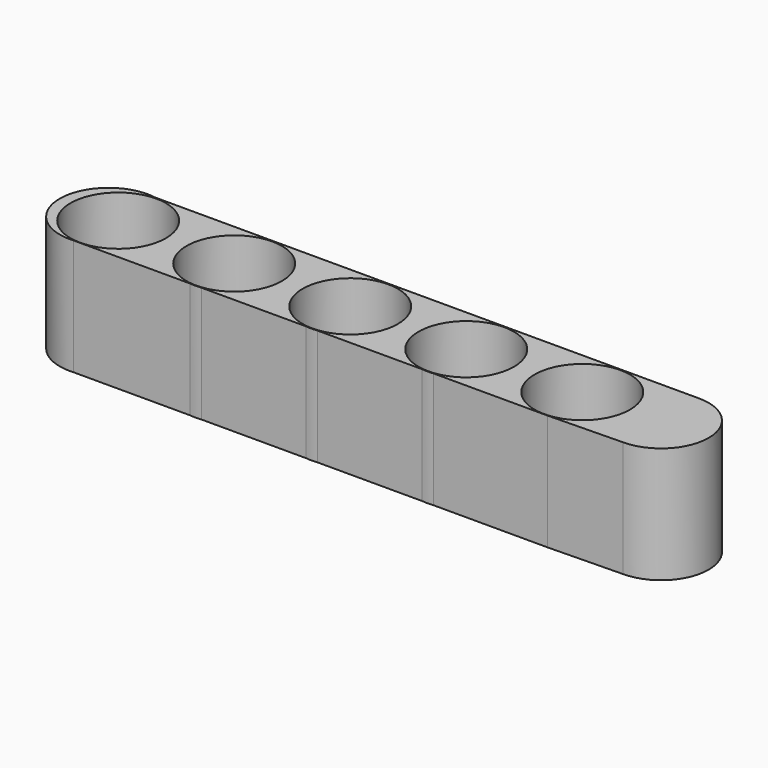
from build123d import *

# Parameters (mm, degrees)
F0_R     = 3.28502651
F1_DEPTH = 8.0000094


with BuildPart() as f1:
    # F0 (on Top) → F1 (new body)
    with BuildSketch(Plane.XY):
        with BuildLine():
            Line((14.3155401794, 4.1714163226), (-18.027754119, 4.1714163226))
            ThreePointArc((-18.027754119, 4.1714163226), (-21.9708757472, 1.022442996), (-18.3479981245, -2.4902481259))
            Line((-18.3479981245, -2.4902481259), (-10.3046082925, -2.4902481259))
            ThreePointArc((-10.3046082925, -2.4902481259), (-12.1241688453, 3.3106235335), (-6.5786714485, 0.8189631964))
            ThreePointArc((-6.5786714485, 0.8189631964), (-7.4195266613, -1.3940186505), (-9.5177657042, -2.4902481259))
            Line((-9.5177657042, -2.4902481259), (-2.3045988925, -2.4902481259))
            ThreePointArc((-2.3045988925, -2.4902481259), (-4.1241594453, 3.3106235335), (1.4213379515, 0.8189631964))
            ThreePointArc((1.4213379515, 0.8189631964), (0.5804827387, -1.3940186505), (-1.5177563042, -2.4902481259))
            Line((-1.5177563042, -2.4902481259), (5.6954105075, -2.4902481259))
            ThreePointArc((5.6954105075, -2.4902481259), (3.8758499547, 3.3106235335), (9.4213473515, 0.8189631964))
            ThreePointArc((9.4213473515, 0.8189631964), (8.5804921387, -1.3940186505), (6.4822530958, -2.4902481259))
            Line((6.4822530958, -2.4902481259), (14.3532814922, -2.4902481259))
            Line((14.3532814922, -2.4902481259), (19.4652192295, -2.3817301262))
            ThreePointArc((19.4652192295, -2.3817301262), (22.7417924539, 0.8948430982), (19.4652192295, 4.1714163226))
            Line((19.4652192295, 4.1714163226), (14.3155401794, 4.1714163226))
        make_face()
        with Locations((-17.9111963984, 0.8189631964)):
            Circle(F0_R, mode=Mode.SUBTRACT)
        with Locations((14.0888412016, 0.8189631964)):
            Circle(F0_R, mode=Mode.SUBTRACT)
        with BuildLine():
            ThreePointArc((-6.5786714485, 0.8189631964), (-12.1241688453, 3.3106235335), (-10.3046082925, -2.4902481259))
            Line((-10.3046082925, -2.4902481259), (-9.5177657042, -2.4902481259))
            ThreePointArc((-9.5177657042, -2.4902481259), (-7.4195266613, -1.3940186505), (-6.5786714485, 0.8189631964))
        make_face()
        with Locations((-9.9111869984, 0.8189631964)):
            Circle(F0_R, mode=Mode.SUBTRACT)
        with BuildLine():
            Line((-9.5177657042, -2.4902481259), (-10.3046082925, -2.4902481259))
            ThreePointArc((-10.3046082925, -2.4902481259), (-9.9111869984, -2.5135523535), (-9.5177657042, -2.4902481259))
        make_face()
        with BuildLine():
            ThreePointArc((1.4213379515, 0.8189631964), (-4.1241594453, 3.3106235335), (-2.3045988925, -2.4902481259))
            Line((-2.3045988925, -2.4902481259), (-1.5177563042, -2.4902481259))
            ThreePointArc((-1.5177563042, -2.4902481259), (0.5804827387, -1.3940186505), (1.4213379515, 0.8189631964))
        make_face()
        with Locations((-1.9111775984, 0.8189631964)):
            Circle(F0_R, mode=Mode.SUBTRACT)
        with BuildLine():
            Line((-1.5177563042, -2.4902481259), (-2.3045988925, -2.4902481259))
            ThreePointArc((-2.3045988925, -2.4902481259), (-1.9111775984, -2.5135523535), (-1.5177563042, -2.4902481259))
        make_face()
        with BuildLine():
            ThreePointArc((5.6954105075, -2.4902481259), (6.0888318016, -2.5135523535), (6.4822530958, -2.4902481259))
            Line((6.4822530958, -2.4902481259), (5.6954105075, -2.4902481259))
        make_face()
        with BuildLine():
            Line((5.6954105075, -2.4902481259), (6.4822530958, -2.4902481259))
            ThreePointArc((6.4822530958, -2.4902481259), (8.5804921387, -1.3940186505), (9.4213473515, 0.8189631964))
            ThreePointArc((9.4213473515, 0.8189631964), (3.8758499547, 3.3106235335), (5.6954105075, -2.4902481259))
        make_face()
        with Locations((6.0888318016, 0.8189631964)):
            Circle(F0_R, mode=Mode.SUBTRACT)
    extrude(amount=F1_DEPTH)


solid = f1.part
